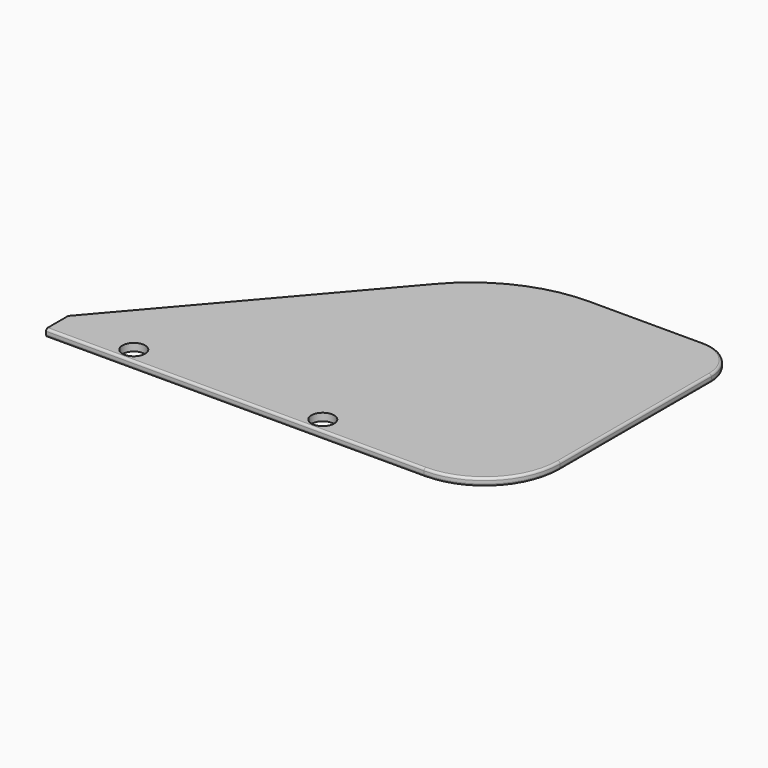
from build123d import *

# Parameters (mm, degrees)
PAD_DEPTH    = 1
FILLET_R     = 0.3
SKETCH001_R  = 1.5
POCKET_DEPTH = 1.001


with BuildPart() as part:
    # Sketch → Pad (new body)
    with BuildSketch(Plane.XY):
        with BuildLine():
            Line((0, 0), (50, 0))
            ThreePointArc((50, 0), (57.071068, 2.928932), (60, 10))
            Line((60, 10), (60, 35))
            ThreePointArc((60, 35), (58.535534, 38.535534), (55, 40))
            Line((55, 40), (40, 40))
            ThreePointArc((40, 40), (31.746583, 38.195054), (25, 33.109746))
            Line((25, 33.109746), (0, 4))
            Line((0, 4), (0, 0))
        make_face()
    extrude(amount=PAD_DEPTH)

    # Fillet
    fillet_edges = [part.edges().sort_by_distance(p)[0] for p in [
        (31.746583, 38.195054, 1),
        (31.746583, 38.195054, 0),
        (47.5, 40, 1),
        (47.5, 40, 0),
        (12.5, 18.554873, 1),
        (12.5, 18.554873, 0),
    ]]
    fillet(fillet_edges, radius=FILLET_R)

    # Sketch001 → Pocket (cut, through all)
    with BuildSketch(Plane.XY.offset(1)):
        with Locations((10, 2)):
            Circle(SKETCH001_R)
        with Locations((35, 2)):
            Circle(SKETCH001_R)
    extrude(amount=-POCKET_DEPTH, mode=Mode.SUBTRACT)


solid = part.part
